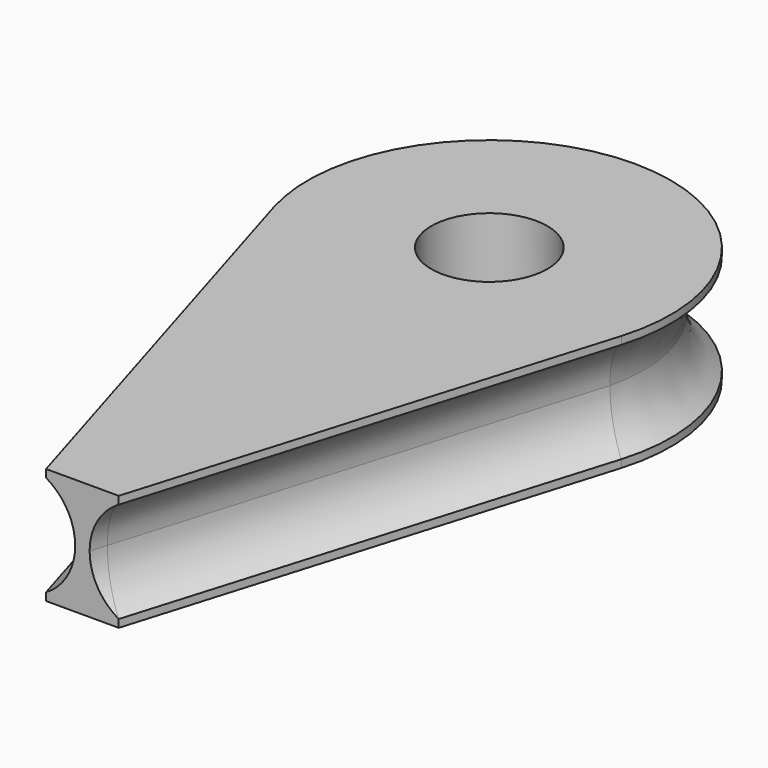
from build123d import *

# Parameters (mm, degrees)
F0_R     = 4
F1_DEPTH = 4


with BuildPart() as f1:
    # F0 (on Top) → F1 (new body)
    with BuildSketch(Plane.XY):
        with BuildLine():
            Line((2.5, -35), (11.9675303731, -3.6094621162))
            ThreePointArc((11.9675303731, -3.6094621162), (0, 12.5), (-11.9675303731, -3.6094621162))
            Line((-11.9675303731, -3.6094621162), (-2.5, -35))
            Line((-2.5, -35), (2.5, -35))
        make_face()
        Circle(F0_R, mode=Mode.SUBTRACT)
    extrude(amount=F1_DEPTH)

    # F4: sweep along a path in F4_path
    with BuildLine(Plane(origin=(-11.9675303731, -3.6094621162, 4), x_dir=(0, 1, 0), z_dir=(0, 0, 1))) as f4_path:
        Line((-31.3905378838, -9.4675303731), (0, 0))
        ThreePointArc((0, 0), (16.1094621162, -11.9675303731), (0, -23.9350607463))
        Line((0, -23.9350607463), (-31.3905378838, -14.4675303731))
        Line((-31.3905378838, -14.4675303731), (-38.5466098599, -12.309226204))
    # F3 (on face) → F4 (sweep, cut)
    with BuildSketch(Plane.XZ.offset(35)):
        with BuildLine():
            ThreePointArc((-2.5, 0.5358983849), (-1.0358983849, 2), (-0.5, 4))
            Line((-0.5, 4), (-2.5, 4))
            Line((-2.5, 4), (-2.5, 0.5358983849))
        make_face()
    sweep(path=f4_path.line, mode=Mode.SUBTRACT)

    # F5: F1 across face


with BuildPart() as f1_1:
    add(f1.part)
    add(f1.part.mirror(Plane(origin=(-0.0002320259, -7.7910771971, 4), x_dir=(1, 0, 0), z_dir=(0, 0, 1))))


solid = f1_1.part
